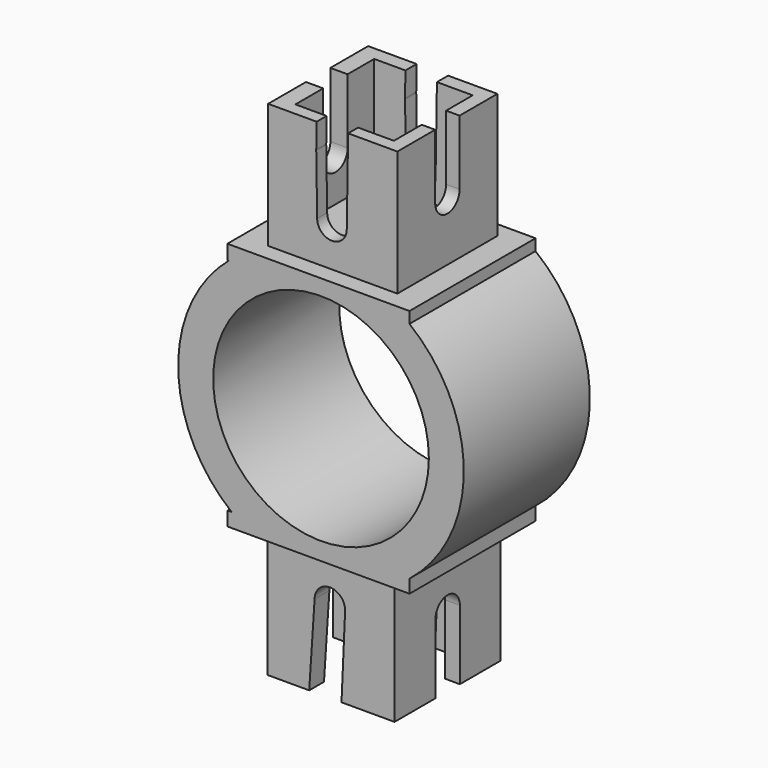
from build123d import *

# Parameters (mm, degrees)
F0_R      = 14.5
F0_R_2    = 10.95
F1_DEPTH  = 16
F2_W      = 18.492934294
F2_H      = 14.1721479595
F2_H_2    = 14.1267654391
F3_DEPTH  = 16
F4_W      = 10
F4_H      = 10
F5_DEPTH  = 11
F6_W      = 10
F6_H      = 10
F7_DEPTH  = 11
F9_DEPTH  = 25.4
F10_W     = 18.492934294
F10_H     = 16
F10_W_2   = 13.1218810566
F10_H_2   = 12.6919343169
F11_DEPTH = 12.7
F12_W     = 18.492934294
F12_H     = 16
F12_W_2   = 12.8853693604
F12_H_2   = 13.4778445354
F13_DEPTH = 12.7
F15_DEPTH = 25.4
F17_DEPTH = 25.4


with BuildPart() as f1:
    # F0 (on Front) → F1 (new body)
    with BuildSketch(Plane.XZ):
        Circle(F0_R)
        Circle(F0_R_2, mode=Mode.SUBTRACT)
    extrude(amount=F1_DEPTH)

    # F2 (on Front) → F3 (join)
    with BuildSketch(Plane.XZ):
        with Locations((-0.2633747645, 18.1480851024)):
            Rectangle(F2_W, F2_H)
        with Locations((-0.2633747645, -18.3736211107)):
            Rectangle(F2_W, F2_H_2)
    extrude(amount=F3_DEPTH)

    # F4 (on face) → F5 (cut)
    with BuildSketch(Plane.XY.offset(25.2341590822)):
        with Locations((0, -8)):
            Rectangle(F4_W, F4_H)
    extrude(amount=-F5_DEPTH, mode=Mode.SUBTRACT)

    # F6 (on face) → F7 (cut)
    with BuildSketch(Plane(origin=(0, 0, -25.4370038303), x_dir=(1, 0, 0), z_dir=(0, 0, -1))):
        with Locations((0.0633943081, 8)):
            Rectangle(F6_W, F6_H)
    extrude(amount=-F7_DEPTH, mode=Mode.SUBTRACT)

    # F8 (on face) → F9 (cut)
    with BuildSketch(Plane(origin=(0, 0, 0), x_dir=(-1, 0, 0), z_dir=(0, 1, 0))):
        with BuildLine():
            Line((1.8700940227, 22.6846607949), (1.8692923579, 22.6340436))
            ThreePointArc((1.8692923579, 22.6340436), (1.8698935939, 22.6593490235), (1.8700940227, 22.6846607949))
        make_face()
        with BuildLine():
            Line((1.7736972601, 16.5981590822), (1.8692923579, 22.6340436))
            Line((1.8692923579, 22.6340436), (1.8700940227, 22.6846607949))
            Line((1.8700940227, 22.6846607949), (1.8692926448, 22.7352689357))
            Line((1.8692926448, 22.7352689357), (1.8297228193, 25.2341590822))
            Line((1.8297228193, 25.2341590822), (-1.3672542312, 25.2341590822))
            Line((-1.3672542312, 25.2341590822), (-1.2305035169, 16.5981590822))
            ThreePointArc((-1.2305035169, 16.5981590822), (0.2715968716, 15.0960586937), (1.7736972601, 16.5981590822))
        make_face()
        with BuildLine():
            Line((1.8692926448, 22.7352689357), (1.8700940227, 22.6846607949))
            ThreePointArc((1.8700940227, 22.6846607949), (1.8698936656, 22.7099680376), (1.8692926448, 22.7352689357))
        make_face()
        with BuildLine():
            Line((2.097781384, -25.4370038303), (1.55, -17.0946339148))
            ThreePointArc((1.55, -17.0946339148), (0, -15.5446339148), (-1.55, -17.0946339148))
            Line((-1.55, -17.0946339148), (-1.5439814747, -17.2310934543))
            Line((-1.5439814747, -17.2310934543), (-1.1820611591, -25.4370038303))
            Line((-1.1820611591, -25.4370038303), (2.097781384, -25.4370038303))
        make_face()
        with BuildLine():
            Line((-1.5439814747, -17.2310934543), (-1.55, -17.0946339148))
            ThreePointArc((-1.55, -17.0946339148), (-1.5484946377, -17.1629300138), (-1.5439814747, -17.2310934543))
        make_face()
    extrude(amount=-F9_DEPTH, mode=Mode.SUBTRACT)

    # F10 (on face) → F11 (cut)
    with BuildSketch(Plane.XY.offset(25.2341590822)):
        with Locations((-0.2633747645, -8)):
            Rectangle(F10_W, F10_H)
        with Locations((-0.1905632671, -7.9240328416)):
            Rectangle(F10_W_2, F10_H_2, mode=Mode.SUBTRACT)
    extrude(amount=-F11_DEPTH, mode=Mode.SUBTRACT)

    # F12 (on face) → F13 (cut)
    with BuildSketch(Plane(origin=(0, 0, -25.4370038303), x_dir=(1, 0, 0), z_dir=(0, 0, -1))):
        with Locations((-0.2633747645, 8)):
            Rectangle(F12_W, F12_H)
        with Locations((0.125055667, 8.137495548)):
            Rectangle(F12_W_2, F12_H_2, mode=Mode.SUBTRACT)
    extrude(amount=-F13_DEPTH, mode=Mode.SUBTRACT)

    # F14 (on face) → F15 (cut)
    with BuildSketch(Plane.YZ.offset(6.3703772612)):
        with BuildLine():
            Line((-9.4740328416, 25.2341590822), (-9.4740328416, 18.6521150172))
            ThreePointArc((-9.4740328416, 18.6521150172), (-7.9240328416, 17.1021150172), (-6.3740328416, 18.6521150172))
            Line((-6.3740328416, 18.6521150172), (-6.3740328416, 25.2341590822))
            Line((-6.3740328416, 25.2341590822), (-9.4740328416, 25.2341590822))
        make_face()
    extrude(amount=-F15_DEPTH, mode=Mode.SUBTRACT)

    # F16 (on face) → F17 (cut)
    with BuildSketch(Plane(origin=(-6.3176290132, 0, 0), x_dir=(0, -1, 0), z_dir=(-1, 0, 0))):
        with BuildLine():
            Line((9.687495548, -25.4370038303), (9.687495548, -18.3815062046))
            ThreePointArc((9.687495548, -18.3815062046), (8.137495548, -16.8315062046), (6.587495548, -18.3815062046))
            Line((6.587495548, -18.3815062046), (6.587495548, -25.4370038303))
            Line((6.587495548, -25.4370038303), (9.687495548, -25.4370038303))
        make_face()
    extrude(amount=-F17_DEPTH, mode=Mode.SUBTRACT)


solid = f1.part
